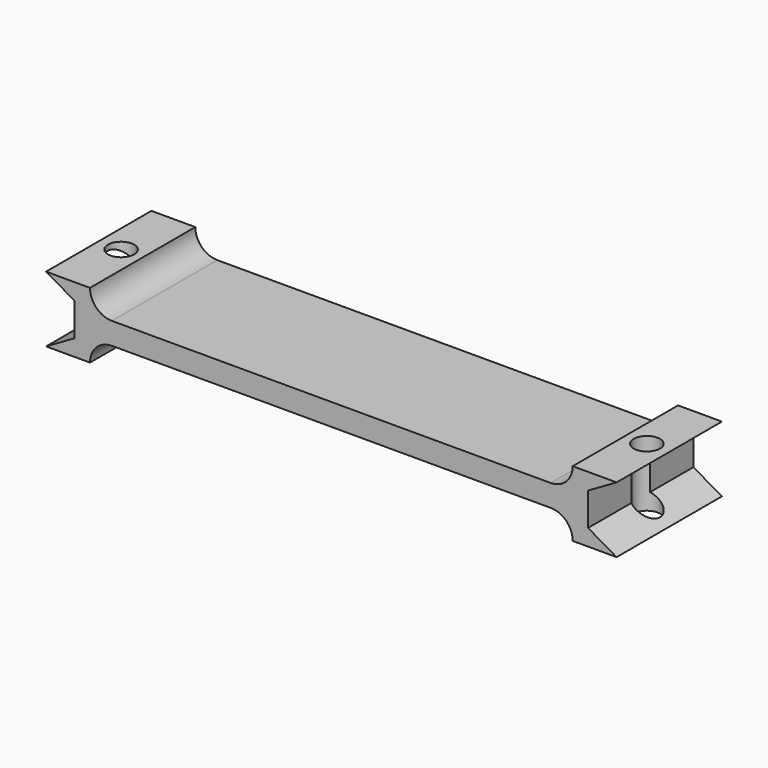
from build123d import *

# Parameters (mm, degrees)
F1_DEPTH = 30
F2_R     = 3
F3_DEPTH = 15
F4_DEPTH = 50


with BuildPart() as f1:
    # F0 (on Front) → F1 (new body)
    with BuildSketch(Plane.XZ):
        with BuildLine():
            ThreePointArc((-15, -2.5), (-11.4644660941, -3.9644660941), (-10, -7.5))
            Line((-10, -7.5), (0, -7.5))
            Line((0, -7.5), (-6.4951905284, -3.75))
            Line((-6.4951905284, -3.75), (-6.4951905284, 3.75))
            Line((-6.4951905284, 3.75), (0, 7.5))
            Line((0, 7.5), (-10, 7.5))
            ThreePointArc((-10, 7.5), (-11.4644660941, 3.9644660941), (-15, 2.5))
            Line((-15, 2.5), (-15, -2.5))
        make_face()
    extrude(amount=F1_DEPTH)

    # F2 (on face) → F3 (cut, through all)
    with BuildSketch(Plane.XY.offset(7.5)):
        with Locations((-5.096135661, -15)):
            Circle(F2_R)
    extrude(amount=-F3_DEPTH, mode=Mode.SUBTRACT)

    # F4 (add): a face of the model
    f4_faces = [f1.faces().sort_by_distance(p)[0] for p in [
        (-15, -15, 0),
    ]]
    extrude(f4_faces, amount=F4_DEPTH)

    # F5: F1 across face


with BuildPart() as f1_1:
    add(f1.part)
    add(f1.part.mirror(Plane(origin=(-65, -15, 0), x_dir=(0, -1, 0), z_dir=(-1, 0, 0))))


solid = f1_1.part
